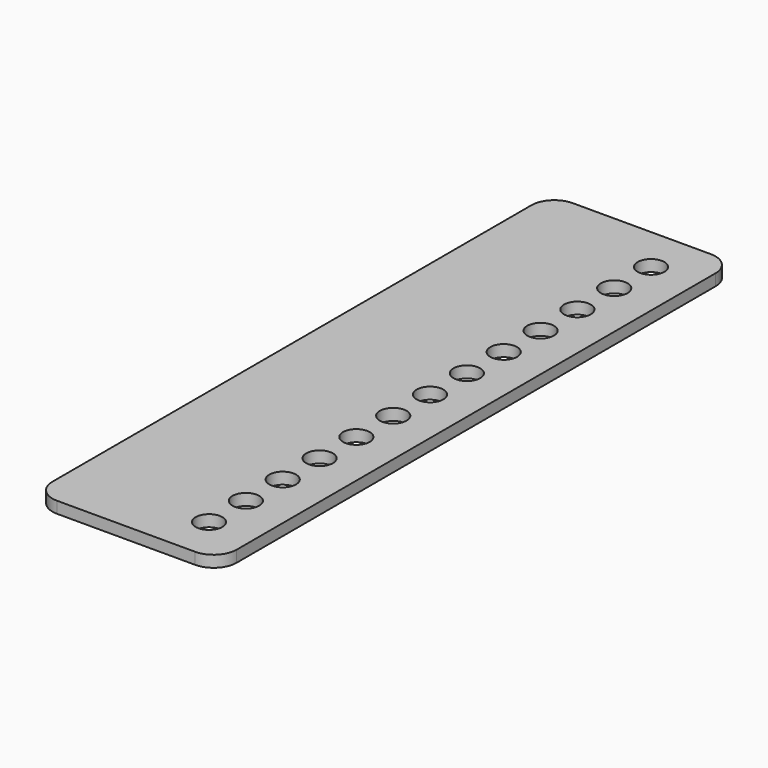
from build123d import *

# Parameters (mm, degrees)
F0_R     = 3.683
F1_DEPTH = 3.175


with BuildPart() as f1:
    # F0 (on Top) → F1 (new body)
    with BuildSketch(Plane.XY):
        with BuildLine():
            ThreePointArc((0, 6.35), (1.859872, 1.859872), (6.35, 0))
            Line((6.35, 0), (44.45, 0))
            ThreePointArc((44.45, 0), (48.940128, 1.859872), (50.8, 6.35))
            Line((50.8, 6.35), (50.8, 171.45))
            ThreePointArc((50.8, 171.45), (48.940128, 175.940128), (44.45, 177.8))
            Line((44.45, 177.8), (6.35, 177.8))
            ThreePointArc((6.35, 177.8), (1.859872, 175.940128), (0, 171.45))
            Line((0, 171.45), (0, 6.35))
        make_face()
        with Locations((38.1, 12.7)):
            Circle(F0_R, mode=Mode.SUBTRACT)
        with Locations((38.1, 25.4)):
            Circle(F0_R, mode=Mode.SUBTRACT)
        with Locations((38.1, 38.1)):
            Circle(F0_R, mode=Mode.SUBTRACT)
        with Locations((38.1, 50.8)):
            Circle(F0_R, mode=Mode.SUBTRACT)
        with Locations((38.1, 63.5)):
            Circle(F0_R, mode=Mode.SUBTRACT)
        with Locations((38.1, 76.2)):
            Circle(F0_R, mode=Mode.SUBTRACT)
        with Locations((38.1, 88.9)):
            Circle(F0_R, mode=Mode.SUBTRACT)
        with Locations((38.1, 101.6)):
            Circle(F0_R, mode=Mode.SUBTRACT)
        with Locations((38.1, 114.3)):
            Circle(F0_R, mode=Mode.SUBTRACT)
        with Locations((38.1, 127)):
            Circle(F0_R, mode=Mode.SUBTRACT)
        with Locations((38.1, 139.7)):
            Circle(F0_R, mode=Mode.SUBTRACT)
        with Locations((38.1, 152.4)):
            Circle(F0_R, mode=Mode.SUBTRACT)
        with Locations((38.1, 165.1)):
            Circle(F0_R, mode=Mode.SUBTRACT)
    extrude(amount=F1_DEPTH)


solid = f1.part
